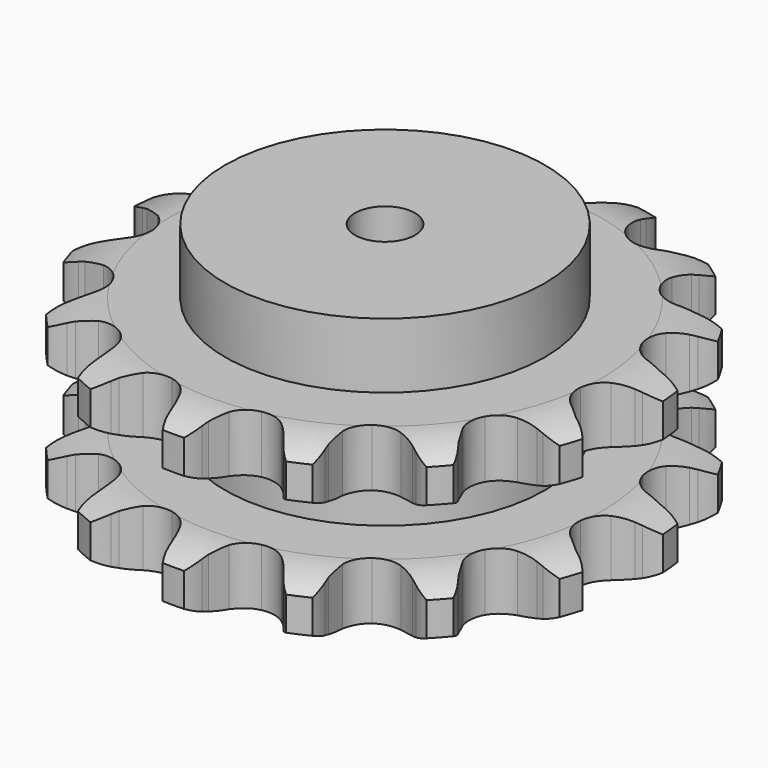
from build123d import *

# Parameters (mm, degrees)
PAD_DEPTH         = 87.4
SKETCH001_R       = 80
PAD001_DEPTH      = 120
SKETCH002_R       = 15
POCKET_DEPTH      = 0.001
POCKET_DEPTH_BACK = 120.001


with BuildPart() as part:
    # Sprocket → Pad (new body)
    with BuildSketch(Plane.XY):
        with BuildLine():
            ThreePointArc((-28.777778, 135.388803), (-22.324593, 130.559909), (-17.791964, 123.895294))
            Line((-17.791964, 123.895294), (-16.430128, 120.938983))
            ThreePointArc((-16.430128, 120.938983), (-14.1837, 116.766913), (-11.436577, 112.906095))
            ThreePointArc((-11.436577, 112.906095), (-6.335455, 108.884694), (0, 107.451127))
            ThreePointArc((0, 107.451127), (6.335455, 108.884694), (11.436577, 112.906095))
            ThreePointArc((11.436577, 112.906095), (14.1837, 116.766913), (16.430128, 120.938983))
            Line((16.430128, 120.938983), (17.791964, 123.895294))
            ThreePointArc((17.791964, 123.895294), (22.324593, 130.559909), (28.777778, 135.388803))
            ThreePointArc((28.777778, 135.388803), (32.708969, 128.352642), (34.138989, 120.420627))
            Line((34.138989, 120.420627), (34.180647, 117.165993))
            ThreePointArc((34.180647, 117.165993), (34.535928, 112.440914), (35.475213, 107.796525))
            ThreePointArc((35.475213, 107.796525), (38.499669, 102.04798), (43.704311, 98.161489))
            ThreePointArc((43.704311, 98.161489), (50.075121, 96.894256), (56.370879, 98.493175))
            Line((56.370879, 98.493175), (64.199985, 103.800523))
            ThreePointArc((64.199985, 103.800523), (65.400309, 104.90008), (66.646524, 105.94734))
            ThreePointArc((66.646524, 105.94734), (73.49803, 110.192182), (81.357396, 111.978849))
            ThreePointArc((81.357396, 111.978849), (82.086852, 103.952037), (80.166999, 96.124139))
            Line((80.166999, 96.124139), (78.881278, 93.133939))
            ThreePointArc((78.881278, 93.133939), (77.28398, 88.672859), (76.253016, 84.047957))
            ThreePointArc((76.253016, 84.047957), (76.67785, 77.566242), (79.851749, 71.898838))
            ThreePointArc((79.851749, 71.898838), (85.156344, 68.149921), (91.558144, 67.049891))
            Line((91.558144, 67.049891), (100.869081, 68.71401))
            ThreePointArc((100.869081, 68.71401), (102.412861, 69.23029), (103.977294, 69.680128))
            ThreePointArc((103.977294, 69.680128), (111.962989, 70.771225), (119.86958, 69.206735))
            ThreePointArc((119.86958, 69.206735), (117.271174, 61.57718), (112.333408, 55.206914))
            Line((112.333408, 55.206914), (109.942619, 52.998181))
            ThreePointArc((109.942619, 52.998181), (106.668929, 49.572461), (103.845981, 45.766733))
            ThreePointArc((103.845981, 45.766733), (101.597735, 39.672597), (102.192095, 33.204224))
            ThreePointArc((102.192095, 33.204224), (105.513262, 27.621845), (110.914174, 24.013071))
            Line((110.914174, 24.013071), (120.096996, 21.746221))
            ThreePointArc((120.096996, 21.746221), (121.7173, 21.589954), (123.329446, 21.364589))
            ThreePointArc((123.329446, 21.364589), (131.068531, 19.113281), (137.655226, 14.468147))
            ThreePointArc((137.655226, 14.468147), (132.178243, 8.55507), (125.076349, 4.743913))
            Line((125.076349, 4.743913), (121.993882, 3.698556))
            ThreePointArc((121.993882, 3.698556), (117.609852, 1.900534), (113.483031, -0.427974))
            ThreePointArc((113.483031, -0.427974), (108.950448, -5.080801), (106.862499, -11.231701))
            ThreePointArc((106.862499, -11.231701), (107.625977, -17.682299), (111.092136, -23.175827))
            Line((111.092136, -23.175827), (118.55905, -28.981688))
            ThreePointArc((118.55905, -28.981688), (119.975712, -29.783482), (121.356816, -30.645082))
            ThreePointArc((121.356816, -30.645082), (127.511133, -35.849523), (131.639032, -42.772114))
            ThreePointArc((131.639032, -42.772114), (124.230494, -45.94629), (116.192454, -46.539355))
            Line((116.192454, -46.539355), (112.951295, -46.240583))
            ThreePointArc((112.951295, -46.240583), (108.214963, -46.100012), (103.497835, -46.548681))
            ThreePointArc((103.497835, -46.548681), (97.464639, -48.955682), (93.055406, -53.725564))
            ThreePointArc((93.055406, -53.725564), (91.129184, -59.929012), (92.061258, -66.357414))
            Line((92.061258, -66.357414), (96.521167, -74.6984))
            ThreePointArc((96.521167, -74.6984), (97.489233, -76.007083), (98.40049, -77.35594))
            ThreePointArc((98.40049, -77.35594), (101.905901, -84.613619), (102.861253, -92.616688))
            ThreePointArc((102.861253, -92.616688), (94.802164, -92.503119), (87.217828, -89.775545))
            Line((87.217828, -89.775545), (84.378403, -88.184305))
            ThreePointArc((84.378403, -88.184305), (80.108724, -86.129448), (75.616923, -84.620698))
            ThreePointArc((75.616923, -84.620698), (69.126308, -84.365681), (63.158188, -86.929788))
            ThreePointArc((63.158188, -86.929788), (58.875327, -91.813455), (57.112152, -98.065201))
            Line((57.112152, -98.065201), (57.793898, -107.499079))
            ThreePointArc((57.793898, -107.499079), (58.14598, -109.088369), (58.429826, -110.691252))
            ThreePointArc((58.429826, -110.691252), (58.680214, -118.747252), (56.29783, -126.446996))
            ThreePointArc((56.29783, -126.446996), (48.981678, -123.065318), (43.162447, -117.488728))
            Line((43.162447, -117.488728), (41.215719, -114.88016))
            ThreePointArc((41.215719, -114.88016), (38.150958, -111.266319), (34.661158, -108.061028))
            ThreePointArc((34.661158, -108.061028), (28.835411, -105.188087), (22.340346, -105.103062))
            ThreePointArc((22.340346, -105.103062), (16.441391, -107.822518), (12.287837, -112.816624))
            Line((12.287837, -112.816624), (9.073538, -121.712191))
            ThreePointArc((9.073538, -121.712191), (8.748759, -123.307285), (8.356114, -124.887042))
            ThreePointArc((8.356114, -124.887042), (5.308184, -132.348406), (0, -138.413469))
            ThreePointArc((0, -138.413469), (-5.308184, -132.348406), (-8.356114, -124.887042))
            Line((-8.356114, -124.887042), (-9.073538, -121.712191))
            ThreePointArc((-9.073538, -121.712191), (-10.403454, -117.164233), (-12.287837, -112.816624))
            ThreePointArc((-12.287837, -112.816624), (-16.441391, -107.822518), (-22.340346, -105.103062))
            ThreePointArc((-22.340346, -105.103062), (-28.835411, -105.188087), (-34.661158, -108.061028))
            Line((-34.661158, -108.061028), (-41.215719, -114.88016))
            ThreePointArc((-41.215719, -114.88016), (-42.161202, -116.205251), (-43.162447, -117.488728))
            ThreePointArc((-43.162447, -117.488728), (-48.981678, -123.065318), (-56.29783, -126.446996))
            ThreePointArc((-56.29783, -126.446996), (-58.680214, -118.747252), (-58.429826, -110.691252))
            Line((-58.429826, -110.691252), (-57.793898, -107.499079))
            ThreePointArc((-57.793898, -107.499079), (-57.159015, -102.803387), (-57.112152, -98.065201))
            ThreePointArc((-57.112152, -98.065201), (-58.875327, -91.813455), (-63.158188, -86.929788))
            ThreePointArc((-63.158188, -86.929788), (-69.126308, -84.365681), (-75.616923, -84.620698))
            Line((-75.616923, -84.620698), (-84.378403, -88.184305))
            ThreePointArc((-84.378403, -88.184305), (-85.781108, -89.010273), (-87.217828, -89.775545))
            ThreePointArc((-87.217828, -89.775545), (-94.802164, -92.503119), (-102.861253, -92.616688))
            ThreePointArc((-102.861253, -92.616688), (-101.905901, -84.613619), (-98.40049, -77.35594))
            Line((-98.40049, -77.35594), (-96.521167, -74.6984))
            ThreePointArc((-96.521167, -74.6984), (-94.031263, -70.666901), (-92.061258, -66.357414))
            ThreePointArc((-92.061258, -66.357414), (-91.129184, -59.929012), (-93.055406, -53.725564))
            ThreePointArc((-93.055406, -53.725564), (-97.464639, -48.955682), (-103.497835, -46.548681))
            Line((-103.497835, -46.548681), (-112.951295, -46.240583))
            ThreePointArc((-112.951295, -46.240583), (-114.568681, -46.424611), (-116.192454, -46.539355))
            ThreePointArc((-116.192454, -46.539355), (-124.230494, -45.94629), (-131.639032, -42.772114))
            ThreePointArc((-131.639032, -42.772114), (-127.511133, -35.849523), (-121.356816, -30.645082))
            Line((-121.356816, -30.645082), (-118.55905, -28.981688))
            ThreePointArc((-118.55905, -28.981688), (-114.644652, -26.311466), (-111.092136, -23.175827))
            ThreePointArc((-111.092136, -23.175827), (-107.625977, -17.682299), (-106.862499, -11.231701))
            ThreePointArc((-106.862499, -11.231701), (-108.950448, -5.080801), (-113.483031, -0.427974))
            Line((-113.483031, -0.427974), (-121.993882, 3.698556))
            ThreePointArc((-121.993882, 3.698556), (-123.546289, 4.188288), (-125.076349, 4.743913))
            ThreePointArc((-125.076349, 4.743913), (-132.178243, 8.55507), (-137.655226, 14.468147))
            ThreePointArc((-137.655226, 14.468147), (-131.068531, 19.113281), (-123.329446, 21.364589))
            Line((-123.329446, 21.364589), (-120.096996, 21.746221))
            ThreePointArc((-120.096996, 21.746221), (-115.434938, 22.59346), (-110.914174, 24.013071))
            ThreePointArc((-110.914174, 24.013071), (-105.513262, 27.621845), (-102.192095, 33.204224))
            ThreePointArc((-102.192095, 33.204224), (-101.597735, 39.672597), (-103.845981, 45.766733))
            Line((-103.845981, 45.766733), (-109.942619, 52.998181))
            ThreePointArc((-109.942619, 52.998181), (-111.161621, 54.076995), (-112.333408, 55.206914))
            ThreePointArc((-112.333408, 55.206914), (-117.271174, 61.57718), (-119.86958, 69.206735))
            ThreePointArc((-119.86958, 69.206735), (-111.962989, 70.771225), (-103.977294, 69.680128))
            Line((-103.977294, 69.680128), (-100.869081, 68.71401))
            ThreePointArc((-100.869081, 68.71401), (-96.265475, 67.591772), (-91.558144, 67.049891))
            ThreePointArc((-91.558144, 67.049891), (-85.156344, 68.149921), (-79.851749, 71.898838))
            ThreePointArc((-79.851749, 71.898838), (-76.67785, 77.566242), (-76.253016, 84.047957))
            Line((-76.253016, 84.047957), (-78.881278, 93.133939))
            ThreePointArc((-78.881278, 93.133939), (-79.556098, 94.615297), (-80.166999, 96.124139))
            ThreePointArc((-80.166999, 96.124139), (-82.086852, 103.952037), (-81.357396, 111.978849))
            ThreePointArc((-81.357396, 111.978849), (-73.49803, 110.192182), (-66.646524, 105.94734))
            Line((-66.646524, 105.94734), (-64.199985, 103.800523))
            ThreePointArc((-64.199985, 103.800523), (-60.450837, 100.902853), (-56.370879, 98.493175))
            ThreePointArc((-56.370879, 98.493175), (-50.075121, 96.894256), (-43.704311, 98.161489))
            ThreePointArc((-43.704311, 98.161489), (-38.499669, 102.04798), (-35.475213, 107.796525))
            Line((-35.475213, 107.796525), (-34.180647, 117.165993))
            ThreePointArc((-34.180647, 117.165993), (-34.194604, 118.793755), (-34.138989, 120.420627))
            ThreePointArc((-34.138989, 120.420627), (-32.708969, 128.352642), (-28.777778, 135.388803))
        make_face()
    extrude(amount=PAD_DEPTH)

    # Sketch → Groove (revolve, cut)
    with BuildSketch(Plane.XZ):
        with BuildLine():
            ThreePointArc((108.4, 0), (120.769317, 1.522732), (132.4, 6))
            Line((132.4, 6), (132.4, 22.8))
            ThreePointArc((132.4, 22.8), (120.769317, 27.277268), (108.4, 28.8))
            Line((80, 28.8), (108.4, 28.8))
            Line((80, 58.6), (80, 28.8))
            Line((108.4, 58.6), (80, 58.6))
            ThreePointArc((108.4, 58.6), (120.769317, 60.122732), (132.4, 64.6))
            Line((132.4, 64.6), (132.4, 81.4))
            ThreePointArc((132.4, 81.4), (120.769317, 85.877268), (108.4, 87.4))
            Line((108.4, 87.4), (142.4, 87.4))
            Line((142.4, 87.4), (142.4, 0))
            Line((108.4, 0), (142.4, 0))
        make_face()
    revolve(axis=Axis((0, 0, 0), (0, 0, 1)), mode=Mode.SUBTRACT)

    # Sketch001 → Pad001 (join)
    with BuildSketch(Plane.XY):
        Circle(SKETCH001_R)
    extrude(amount=PAD001_DEPTH)

    # Sketch002 → Pocket (cut, two sides)
    with BuildSketch(Plane.XY) as pocket_sk:
        Circle(SKETCH002_R)
    extrude(amount=-POCKET_DEPTH, mode=Mode.SUBTRACT)
    extrude(pocket_sk.sketch, amount=POCKET_DEPTH_BACK, mode=Mode.SUBTRACT)


solid = part.part
